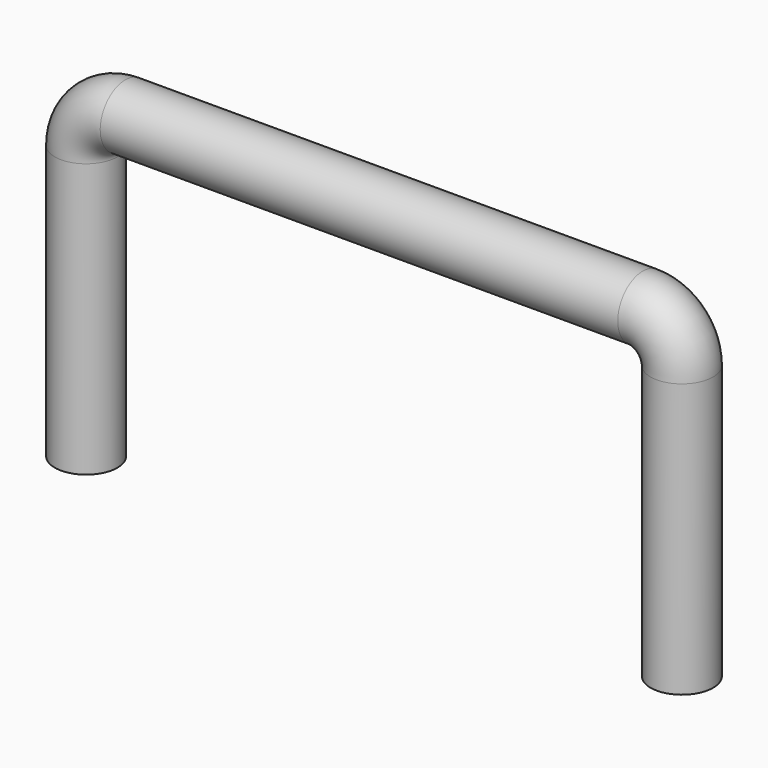
from build123d import *

# Parameters (mm, degrees)
SKETCH_R = 0.4


with BuildPart() as part:
    # AdditivePipe: sweep along a path in Sketch001
    with BuildLine(Plane.XZ) as additivepipe_path:
        Line((0, 0), (0, 3.5))
        ThreePointArc((0, 3.5), (0.146447, 3.853553), (0.5, 4))
        Line((0.5, 4), (7.12, 4))
        ThreePointArc((7.12, 4), (7.473553, 3.853553), (7.62, 3.5))
        Line((7.62, 3.5), (7.62, 0))
    # Sketch → AdditivePipe (sweep)
    with BuildSketch(Plane.XY):
        Circle(SKETCH_R)
    sweep(path=additivepipe_path.line)


solid = part.part
